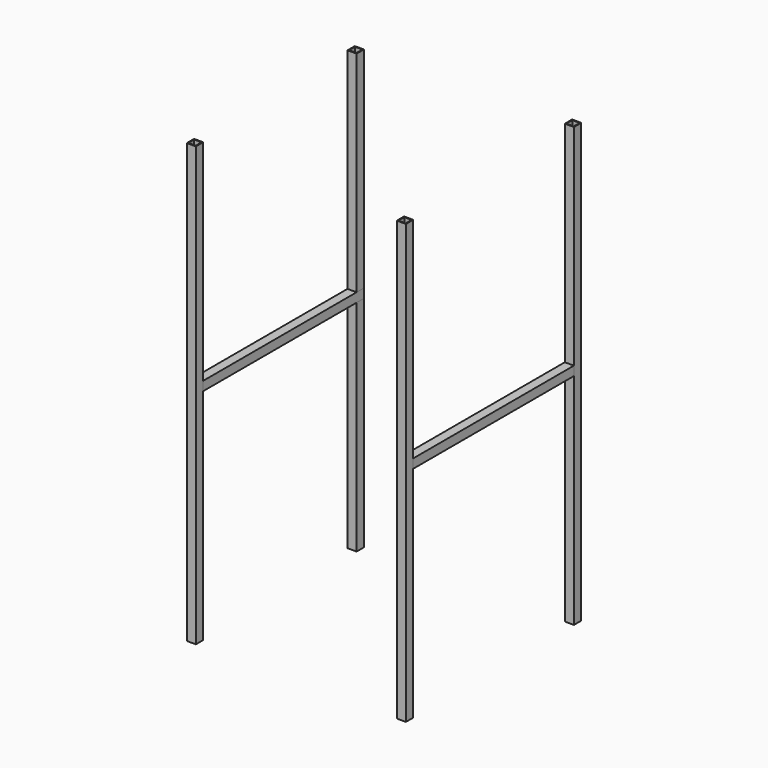
from build123d import *

# Parameters (mm, degrees)
F0_W     = 25.4
F0_H     = 25.4
F0_W_2   = 20.4
F0_H_2   = 20.4
F1_DEPTH = 1219.2
F2_W     = 25.4
F2_H     = 25.4
F3_DEPTH = 558.8


with BuildPart() as f1:
    # F0 (on Top) → F1 (new body)
    with BuildSketch(Plane.XY):
        with Locations((-584.2, -25.4)):
            Rectangle(F0_W, F0_H)
        with Locations((-584.2, -25.4)):
            Rectangle(F0_W_2, F0_H_2, mode=Mode.SUBTRACT)
        with Locations((-584.2, -584.2)):
            Rectangle(F0_W, F0_H)
        with Locations((-584.2, -584.2)):
            Rectangle(F0_W_2, F0_H_2, mode=Mode.SUBTRACT)
        with Locations((0, -584.2)):
            Rectangle(F0_W, F0_H)
        with Locations((0, -584.2)):
            Rectangle(F0_W_2, F0_H_2, mode=Mode.SUBTRACT)
        Rectangle(F0_W, F0_H)
        Rectangle(F0_W_2, F0_H_2, mode=Mode.SUBTRACT)
    extrude(amount=F1_DEPTH)


with BuildPart() as f3:
    # F2 (on face) → F3 (new body)
    with BuildSketch(Plane.XZ.offset(12.7)):
        with Locations((0, 622.3)):
            Rectangle(F2_W, F2_H)
        with Locations((-584.2, 622.3)):
            Rectangle(F2_W, F2_H)
    extrude(amount=F3_DEPTH)


solid = Compound([f1.part, f3.part])
